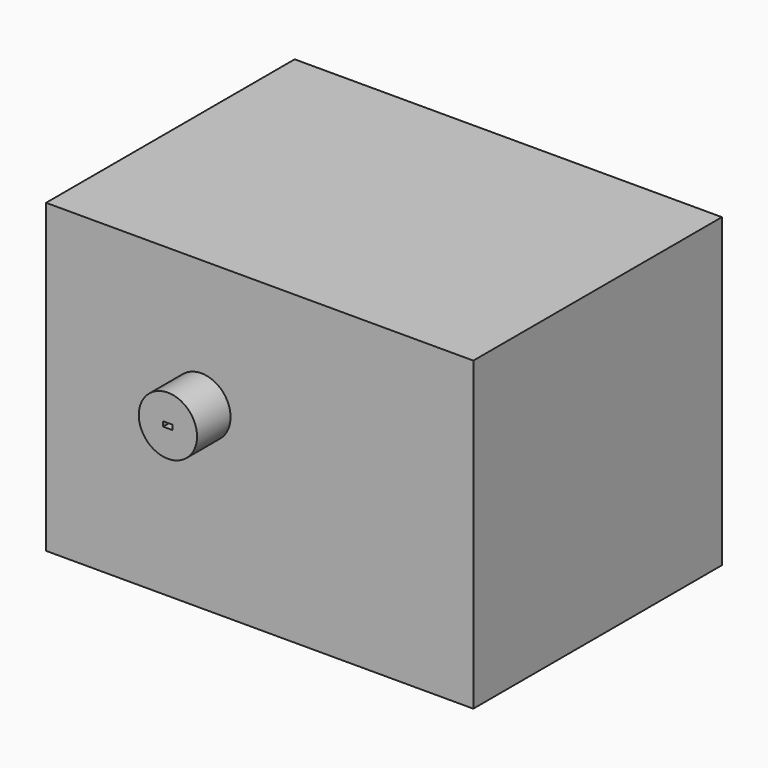
from build123d import *

# Parameters (mm, degrees)
F0_W     = 139.7
F0_H     = 100.2
F0_R     = 9.525
F0_W_2   = 3.1
F0_H_2   = 1.55
F1_DEPTH = 101.6
F2_DEPTH = 13.7
F4_R     = 9.525
F4_W     = 3.1
F4_H     = 1.55
F5_DEPTH = 13.7
F7_DEPTH = 10


with BuildPart() as f1:
    # F0 (on Front) → F1 (new body)
    with BuildSketch(Plane.XZ):
        with Locations((19.05, -8.02)):
            Rectangle(F0_W, F0_H)
        Circle(F0_R, mode=Mode.SUBTRACT)
        Circle(F0_R)
        Rectangle(F0_W_2, F0_H_2, mode=Mode.SUBTRACT)
        Rectangle(F0_W_2, F0_H_2)
    extrude(amount=F1_DEPTH)

    # F0 (on Front) → F2 (join)
    with BuildSketch(Plane.XZ):
        Circle(F0_R)
        Rectangle(F0_W_2, F0_H_2, mode=Mode.SUBTRACT)
    extrude(amount=-F2_DEPTH)

    # F4 (on offset) → F5 (join)
    with BuildSketch(Plane.XZ.offset(101.6)):
        Circle(F4_R)
        Rectangle(F4_W, F4_H, mode=Mode.SUBTRACT)
    extrude(amount=F5_DEPTH)

    # F6 (on face) → F7 (cut)
    with BuildSketch(Plane(origin=(0, 0, -58.12), x_dir=(1, 0, 0), z_dir=(0, 0, -1))):
        with BuildLine():
            ThreePointArc((21.45, 95.25), (17.3529437252, 96.9470562748), (19.05, 92.85))
            ThreePointArc((19.05, 92.85), (20.7470562748, 93.5529437252), (21.45, 95.25))
        make_face()
        with BuildLine():
            ThreePointArc((21.45, 6.35), (20.7470562748, 8.0470562748), (19.05, 8.75))
            ThreePointArc((19.05, 8.75), (17.3529437252, 4.6529437252), (21.45, 6.35))
        make_face()
    extrude(amount=-F7_DEPTH, mode=Mode.SUBTRACT)


solid = f1.part
